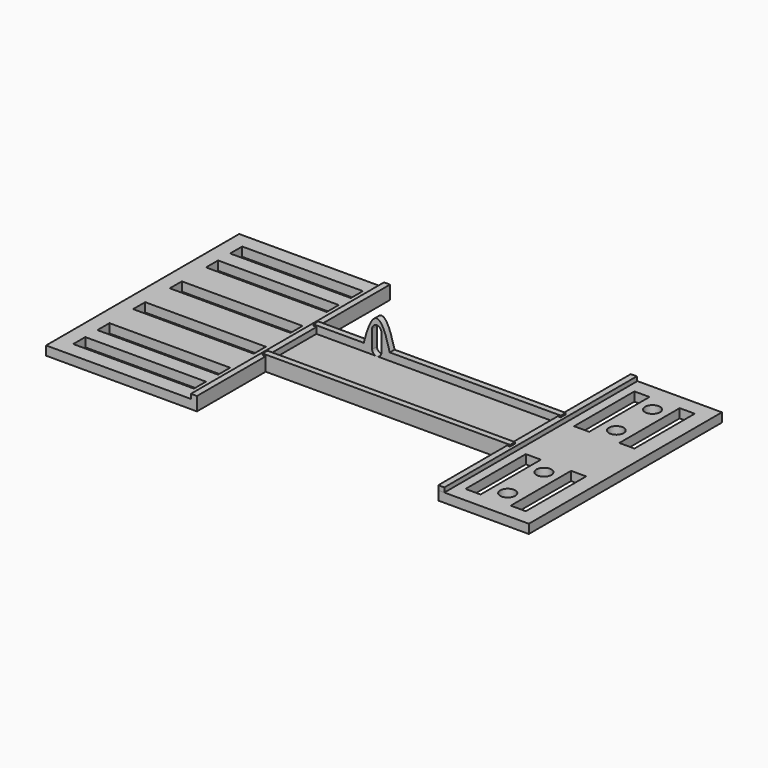
from build123d import *

# Parameters (mm, degrees)
SKETCH_W        = 81
SKETCH_H        = 19
PAD_DEPTH       = 2.5
SKETCH001_W     = 82
SKETCH001_H     = 5
PAD001_DEPTH    = 2
SKETCH002_W     = 82
SKETCH002_H     = 5
PAD002_DEPTH    = 2
PAD003_DEPTH    = 2
POCKET_DEPTH    = 2
SKETCH005_W     = 50
SKETCH005_H     = 80
SKETCH005_W_2   = 30
PAD004_DEPTH    = 3
SKETCH006_R     = 2.48011
SKETCH006_R_2   = 2.438602
SKETCH006_R_3   = 2.48946
SKETCH006_W     = 5
SKETCH006_H     = 25
POCKET001_DEPTH = 3
SKETCH007_W     = 40
SKETCH007_H     = 5
POCKET002_DEPTH = 5
SKETCH008_W     = 2
SKETCH008_H     = 79.741493
SKETCH008_H_2   = 80
PAD005_DEPTH    = 1.5


with BuildPart() as part:
    # Sketch → Pad (new body)
    with BuildSketch(Plane.XY):
        Rectangle(SKETCH_W, SKETCH_H)
    extrude(amount=PAD_DEPTH)

    # Sketch001 (on Face3 of Pad) → Pad001 (join)
    with BuildSketch(Plane.XZ.offset(9.5)):
        with Locations((0, 2.5)):
            Rectangle(SKETCH001_W, SKETCH001_H)
    extrude(amount=PAD001_DEPTH)

    # Sketch002 (on Face11 of Pad001) → Pad002 (join)
    with BuildSketch(Plane(origin=(0, 9.5, 0), x_dir=(-1, 0, 0), z_dir=(0, 1, 0))):
        with Locations((0, 2.5)):
            Rectangle(SKETCH002_W, SKETCH002_H)
    extrude(amount=PAD002_DEPTH)

    # Sketch003 (on Face6 of Pad002) → Pad003 (join)
    with BuildSketch(Plane(origin=(0, 11.5, 0), x_dir=(-1, 0, 0), z_dir=(0, 1, 0))):
        with BuildLine():
            add(Edge.make_bspline(
                [(15, 2.06384), (20, 25), (25, 2.06384)],
                knots=[0, 0, 0, 1, 1, 1], degree=2))
            Line((25, 2.06384), (15, 2.06384))
        make_face()
    extrude(amount=-PAD003_DEPTH)

    # Sketch004 (on Face22 of Pad003) → Pocket (cut)
    with BuildSketch(Plane(origin=(0, 11.5, 0), x_dir=(-1, 0, 0), z_dir=(0, 1, 0))):
        with BuildLine():
            ThreePointArc((21.534306, 9.999999), (20, 11.534305), (18.465694, 9.999999))
            Line((18.465694, 9.999999), (18.465694, 3.999999))
            ThreePointArc((18.465694, 3.999999), (20, 2.465693), (21.534306, 3.999999))
            Line((21.534306, 9.999999), (21.534306, 3.999999))
        make_face()
    extrude(amount=-POCKET_DEPTH, mode=Mode.SUBTRACT)

    # Sketch005 (on Face5 of Pocket) → Pad004 (join)
    with BuildSketch(Plane(origin=(0, 0, 0), x_dir=(1, 0, 0), z_dir=(0, 0, -1))):
        with Locations((-65, 0)):
            Rectangle(SKETCH005_W, SKETCH005_H)
        with Locations((55, 0)):
            Rectangle(SKETCH005_W_2, SKETCH005_H)
    extrude(amount=-PAD004_DEPTH)

    # Sketch006 (on Face18 of Pad004) → Pocket001 (cut)
    with BuildSketch(Plane(origin=(0, 0, 0), x_dir=(1, 0, 0), z_dir=(0, 0, -1))):
        with Locations((55, -30)):
            Circle(SKETCH006_R)
        with Locations((55, -15)):
            Circle(SKETCH006_R_2)
        with Locations((55, 15)):
            Circle(SKETCH006_R_3)
        with Locations((55, 30)):
            Circle(SKETCH006_R_3)
        with Locations((62.5, 22.5)):
            Rectangle(SKETCH006_W, SKETCH006_H)
        with Locations((62.5, -22.5)):
            Rectangle(SKETCH006_W, SKETCH006_H)
        with Locations((47.5, -22.5)):
            Rectangle(SKETCH006_W, SKETCH006_H)
        with Locations((47.5, 22.5)):
            Rectangle(SKETCH006_W, SKETCH006_H)
    extrude(amount=-POCKET001_DEPTH, mode=Mode.SUBTRACT)

    # Sketch007 (on Face2 of Pocket001) → Pocket002 (cut)
    with BuildSketch(Plane(origin=(0, 0, 0), x_dir=(1, 0, 0), z_dir=(0, 0, -1))):
        with Locations((-65, 32.5)):
            Rectangle(SKETCH007_W, SKETCH007_H)
        with Locations((-65, 22.5)):
            Rectangle(SKETCH007_W, SKETCH007_H)
        with Locations((-65.12384, 7.546442)):
            Rectangle(SKETCH007_W, SKETCH007_H)
        with Locations((-65, -7.5)):
            Rectangle(SKETCH007_W, SKETCH007_H)
        with Locations((-65, -22.5)):
            Rectangle(SKETCH007_W, SKETCH007_H)
        with Locations((-65, -32.5)):
            Rectangle(SKETCH007_W, SKETCH007_H)
    extrude(amount=-POCKET002_DEPTH, mode=Mode.SUBTRACT)

    # Sketch008 (on Face47 of Pocket002) → Pad005 (join)
    with BuildSketch(Plane.XY.offset(3)):
        with Locations((41, -0.129254)):
            Rectangle(SKETCH008_W, SKETCH008_H)
        with Locations((-41, 0)):
            Rectangle(SKETCH008_W, SKETCH008_H_2)
    extrude(amount=PAD005_DEPTH)


solid = part.part
